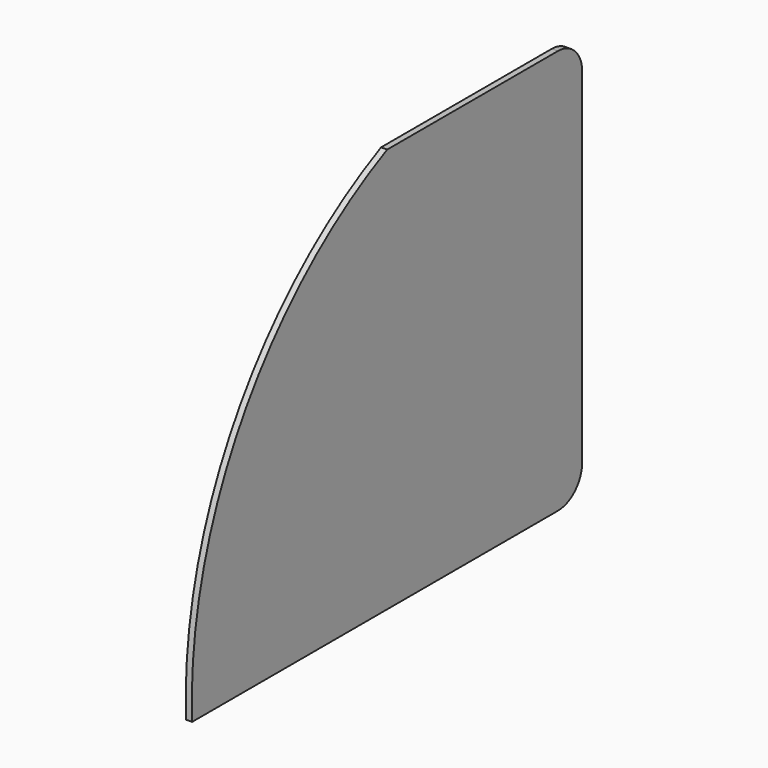
from build123d import *

# Parameters (mm, degrees)
F1_DEPTH = 1


with BuildPart() as f1:
    # F0 (on Right) → F1 (new body)
    with BuildSketch(Plane.YZ):
        with BuildLine():
            Line((-80, 0), (-5, 0))
            ThreePointArc((-5, 0), (-1.464466, 1.464466), (0, 5))
            Line((0, 5), (0, 61.4))
            ThreePointArc((0, 61.4), (-1.464466, 64.935534), (-5, 66.4))
            Line((-5, 66.4), (-40, 66.4))
            ThreePointArc((-40, 66.4), (-69.979813, 39.211936), (-80, 0))
        make_face()
    extrude(amount=F1_DEPTH)


solid = f1.part
